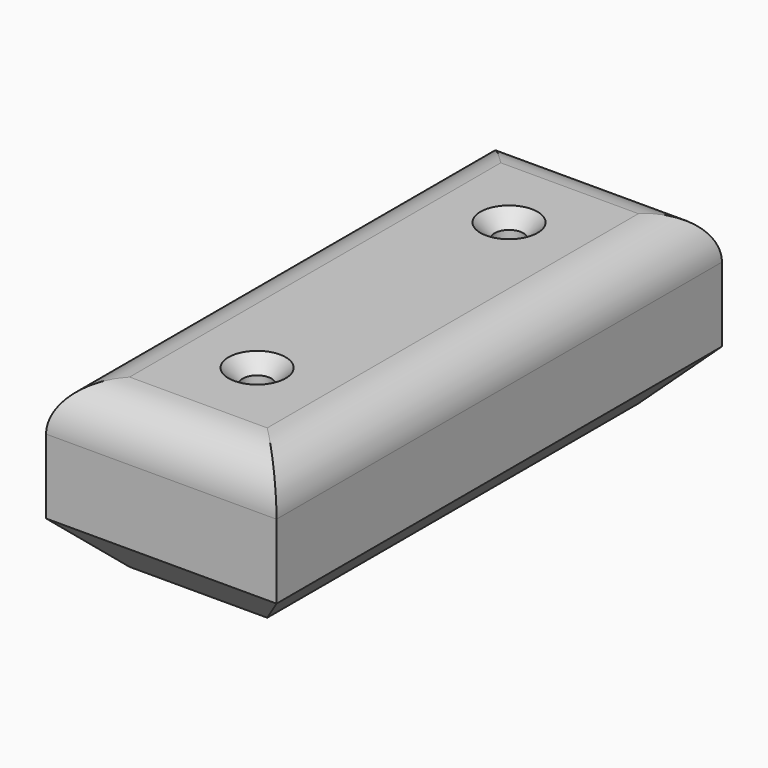
from build123d import *

# Parameters (mm, degrees)
F0_W           = 124.1753287613
F0_H           = 90.0488961488
F1_DEPTH       = 150
F2_R           = 25
F4_D           = 15.5
F4_CSINK_D     = 30.8
F4_CSINK_ANGLE = 90
F6_SIZE        = 25


with BuildPart() as f1:
    # F0 (on Front) → F1 (new body)
    with BuildSketch(Plane.XZ):
        with Locations((0.5159582943, 17.5197338685)):
            Rectangle(F0_W, F0_H)
    extrude(amount=F1_DEPTH)

    # F2
    f2_edges = [f1.edges().sort_by_distance(p)[0] for p in [
        (0.515958, -150, 62.544182),
        (62.603623, -75, 62.544182),
        (-61.571706, -75, 62.544182),
    ]]
    fillet(f2_edges, radius=F2_R)

    # F4 (through all)
    with Locations(Plane.XY.offset(62.5441819429)):
        with Locations((0, -84.8435163498)):
            CounterSinkHole(F4_D / 2, F4_CSINK_D / 2, counter_sink_angle=F4_CSINK_ANGLE)

    # F5: F1 across plane


with BuildPart() as f1_1:
    add(f1.part)
    add(f1.part.mirror(Plane.XZ))

    # F6
    f6_edges = [f1_1.edges().sort_by_distance(p)[0] for p in [
        (62.603623, 0, -27.504714),
        (0.515958, 150, -27.504714),
        (0.515958, -150, -27.504714),
        (-61.571706, 0, -27.504714),
    ]]
    chamfer(f6_edges, length=F6_SIZE)


solid = f1_1.part
